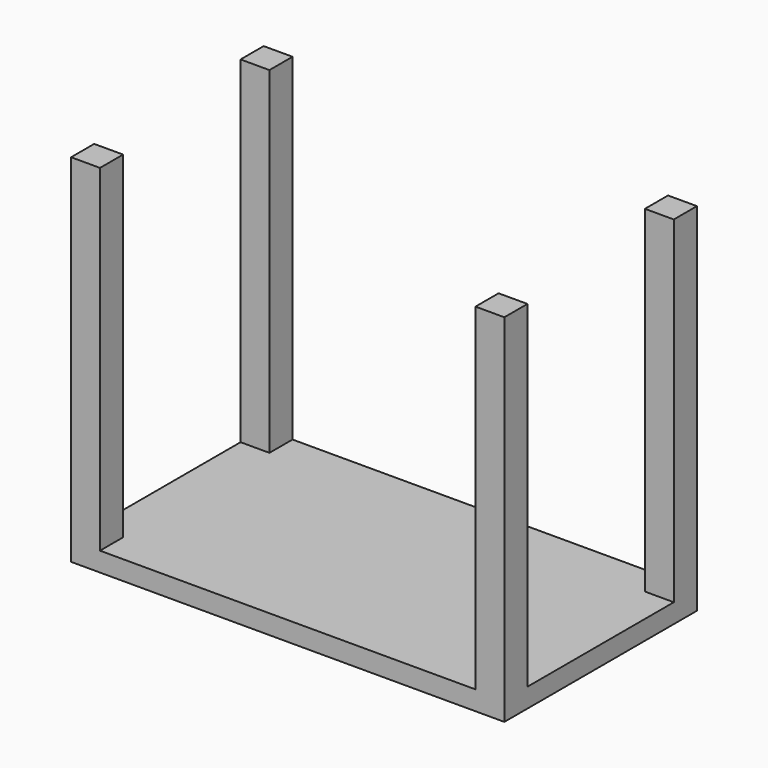
from build123d import *

# Parameters (mm, degrees)
F0_W     = 1143
F0_H     = 635
F1_DEPTH = 25.4
F2_W     = 76.2
F2_H     = 76.2
F3_DEPTH = 889


with BuildPart() as f1:
    # F0 (on Top) → F1 (new body, symmetric)
    with BuildSketch(Plane.XY):
        Rectangle(F0_W, F0_H)
    extrude(amount=F1_DEPTH, both=True)

    # F2 (on face) → F3 (join)
    with BuildSketch(Plane.XY.offset(25.4)):
        with Locations((-533.4, 279.4)):
            Rectangle(F2_W, F2_H)
        with Locations((-533.4, -279.4)):
            Rectangle(F2_W, F2_H)
        with Locations((533.4, 279.4)):
            Rectangle(F2_W, F2_H)
        with Locations((533.4, -279.4)):
            Rectangle(F2_W, F2_H)
    extrude(amount=F3_DEPTH)


solid = f1.part
